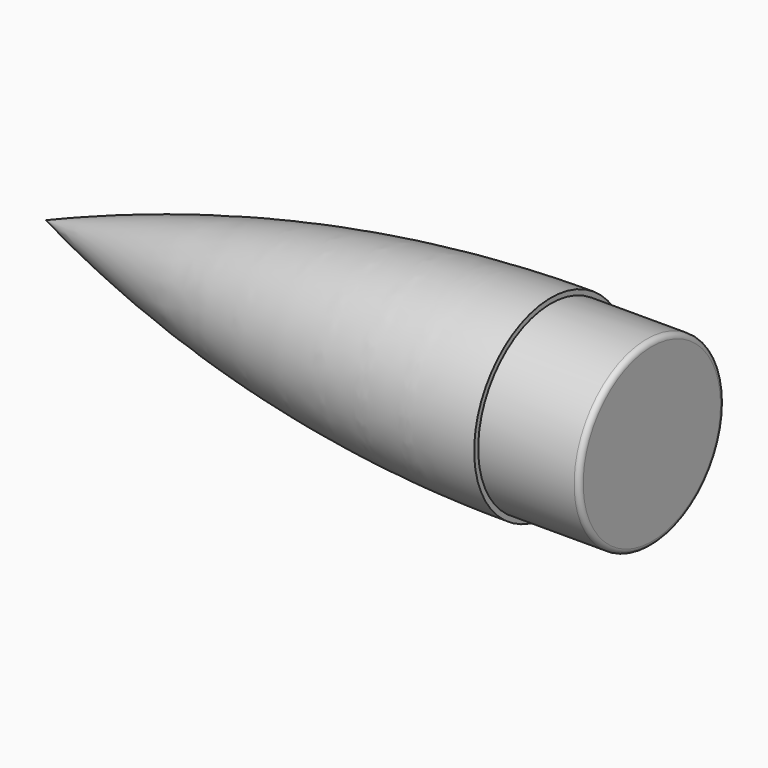
from build123d import *


with BuildPart() as f2:
    # F1 (on Top) → F2 (revolve)
    with BuildSketch(Plane.XY):
        with BuildLine():
            Line((0, 0), (100, 0))
            Line((100, 0), (100, 18))
            Line((100, 18), (100, 19))
            ThreePointArc((100, 19), (49.105501, 14.207888), (0, 0))
        make_face()
        with BuildLine():
            Line((100, 18), (100, 0))
            Line((100, 0), (115, 0))
            Line((115, 0), (120, 0))
            Line((120, 0), (120, 17))
            ThreePointArc((120, 17), (119.707107, 17.707107), (119, 18))
            Line((119, 18), (100, 18))
        make_face()
    revolve(axis=Axis((25.042179, 0, 0), (-1, 0, 0)))


solid = f2.part
